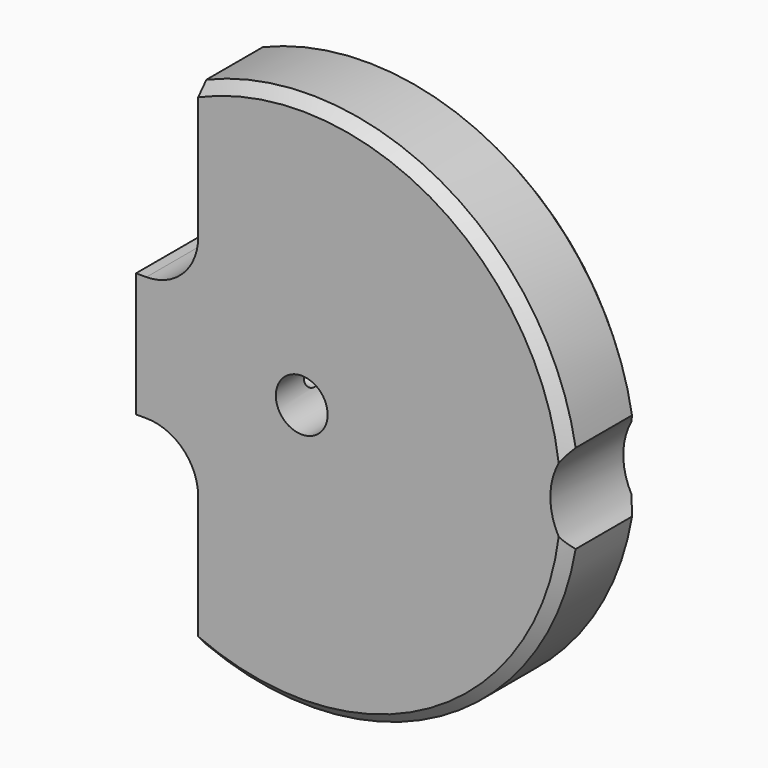
from build123d import *

# Parameters (mm, degrees)
F0_R     = 3.175
F1_DEPTH = 5.588
F2_R     = 1.27
F3_DEPTH = 15.24
F4_DEPTH = 19.05
F5_SIZE  = 1.27


with BuildPart() as f1:
    # F0 (on Front) → F1 (new body, symmetric)
    with BuildSketch(Plane.XZ):
        with BuildLine():
            ThreePointArc((32.5652864105, 5.461), (15.973258631, 28.8994015285), (-12.7, 30.48))
            Line((-12.7, 30.48), (-12.7, 13.97))
            ThreePointArc((-12.7, 13.97), (-14.5598719395, 9.4798719395), (-19.05, 7.62))
            Line((-19.05, 7.62), (-20.32, 7.62))
            Line((-20.32, 7.62), (-20.32, -7.62))
            Line((-20.32, -7.62), (-19.05, -7.62))
            ThreePointArc((-19.05, -7.62), (-14.5598719395, -9.4798719395), (-12.7, -13.97))
            Line((-12.7, -13.97), (-12.7, -30.48))
            ThreePointArc((-12.7, -30.48), (15.973258631, -28.8994015285), (32.5652864105, -5.461))
            ThreePointArc((32.5652864105, -5.461), (30.48, 0), (32.5652864105, 5.461))
        make_face()
        Circle(F0_R, mode=Mode.SUBTRACT)
    extrude(amount=F1_DEPTH, both=True)

    # F2 (on face) → F3 (cut)
    with BuildSketch(Plane(origin=(-20.32, 0, 0), x_dir=(0, -1, 0), z_dir=(-1, 0, 0))):
        Circle(F2_R)
        with Locations((0, 5.08)):
            Circle(F2_R)
        with Locations((0, -5.08)):
            Circle(F2_R)
    extrude(amount=-F3_DEPTH, mode=Mode.SUBTRACT)

    # F2 (on face) → F4 (cut)
    with BuildSketch(Plane(origin=(-20.32, 0, 0), x_dir=(0, -1, 0), z_dir=(-1, 0, 0))):
        Circle(F2_R)
    extrude(amount=-F4_DEPTH, mode=Mode.SUBTRACT)

    # F5
    f5_edges = [f1.edges().sort_by_distance(p)[0] for p in [
        (15.973259, -5.588, 28.899402),
        (15.973259, -5.588, -28.899402),
        (15.973259, 5.588, 28.899402),
        (15.973259, 5.588, -28.899402),
    ]]
    chamfer(f5_edges, length=F5_SIZE)


solid = f1.part
